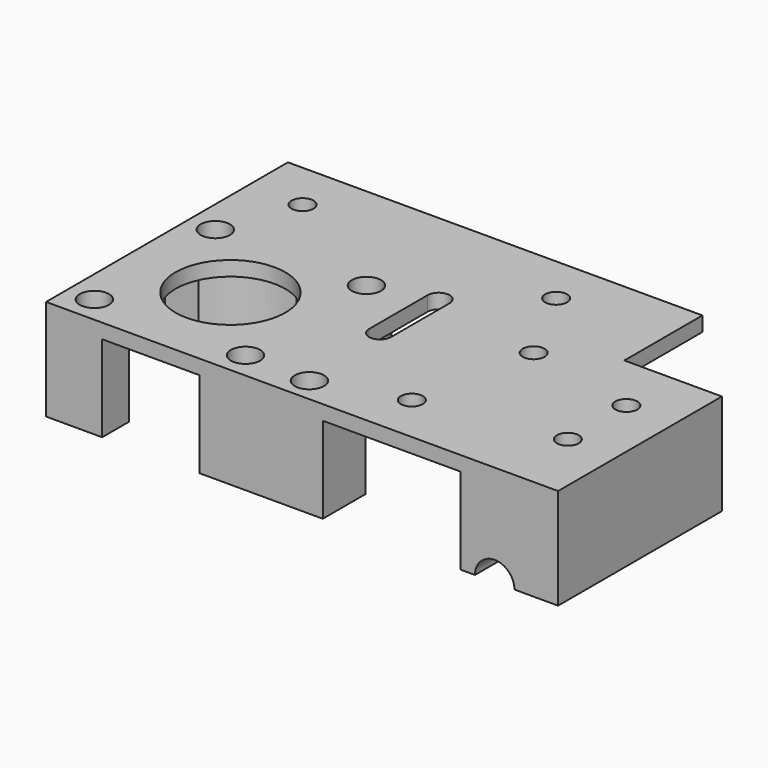
from build123d import *

# Parameters (mm, degrees)
SKETCH_R        = 2.25
SKETCH_R_2      = 11.25
SKETCH_R_3      = 1.75
PAD_DEPTH       = 20.7
POCKET_DEPTH    = 17.7
SKETCH002_R     = 4
PAD001_DEPTH    = 8
SKETCH003_R     = 3
POCKET001_DEPTH = 8
SKETCH004_R     = 1.75
POCKET002_DEPTH = 5
SKETCH005_R     = 4.05
POCKET003_DEPTH = 12
SKETCH006_R     = 1.75
POCKET004_DEPTH = 12.701


with BuildPart() as pocket_belt_path:
    # Sketch → Pad (new body)
    with BuildSketch(Plane.XY):
        Polygon((0, 0), (105, 0), (105, 62), (20, 62), (20, 42), (0, 42), align=None)
        with Locations((38, 10)):
            Circle(SKETCH_R, mode=Mode.SUBTRACT)
        with Locations((33, 35)):
            Circle(SKETCH_R, mode=Mode.SUBTRACT)
        with Locations((84, 21)):
            Circle(SKETCH_R_2, mode=Mode.SUBTRACT)
        with Locations((68.5, 36.5)):
            Circle(SKETCH_R_3, mode=Mode.SUBTRACT)
        with Locations((99.5, 36.5)):
            Circle(SKETCH_R_3, mode=Mode.SUBTRACT)
        with Locations((68.5, 5.5)):
            Circle(SKETCH_R_3, mode=Mode.SUBTRACT)
        with Locations((99.5, 5.5)):
            Circle(SKETCH_R_3, mode=Mode.SUBTRACT)
        with Locations((10, 30)):
            Circle(SKETCH_R, mode=Mode.SUBTRACT)
        with Locations((10, 15)):
            Circle(SKETCH_R, mode=Mode.SUBTRACT)
        with Locations((42, 52)):
            Circle(SKETCH_R, mode=Mode.SUBTRACT)
        with Locations((94, 52)):
            Circle(SKETCH_R, mode=Mode.SUBTRACT)
        with Locations((55, 5)):
            Circle(SKETCH_R_3, mode=Mode.SUBTRACT)
        with BuildLine():
            Line((58.75, 25.000001), (58.75, 40))
            ThreePointArc((58.75, 40), (56.5, 42.25), (54.25, 39.999999))
            Line((54.25, 25), (54.25, 39.999999))
            ThreePointArc((54.25, 25), (56.5, 22.75), (58.75, 25.000001))
        make_face(mode=Mode.SUBTRACT)
    extrude(amount=PAD_DEPTH)

    # Sketch001 → Pocket (cut)
    with BuildSketch(Plane.XY.offset(20.7)):
        with BuildLine():
            ThreePointArc((41.485277, 42), (39.015593, 44.209375), (35.999996, 45.583005))
            Line((35.999996, 67), (35.999996, 45.583005))
            Line((20, 67), (35.999996, 67))
            Line((20, -1), (20, 67))
            Line((20, -1), (48.252269, -1))
            Line((48.252269, 11), (48.252269, -1))
            Line((48.252269, 11), (70.252269, 11))
            ThreePointArc((70.252269, 11), (71.759618, 9.202833), (73.499996, 7.630258))
            Line((73.499996, 7.630258), (73.499996, -1))
            Line((73.499996, -1), (93.499996, -1))
            Line((93.499996, -1), (93.499996, 6.902128))
            ThreePointArc((93.499996, 6.902128), (95.574295, 8.548671), (97.367695, 10.497399))
            Line((105.499996, 10.497399), (97.367695, 10.497399))
            Line((105.499996, 30.497399), (105.499996, 10.497399))
            Line((98.099621, 30.497399), (105.499996, 30.497399))
            ThreePointArc((98.099621, 30.497399), (91.98574, 36.007594), (83.999996, 38))
            Line((83.999996, 38), (83.999996, 67))
            Line((83.999996, 67), (46.999996, 67))
            Line((46.999996, 67), (46.999996, 42))
            Line((41.485277, 42), (46.999996, 42))
        make_face()
    extrude(amount=-POCKET_DEPTH, mode=Mode.SUBTRACT)


with BuildPart() as pocket004:
    # Part__Mirroring: instance of Pocket belt path
    add(pocket_belt_path.part.mirror(Plane(origin=(52.5, 31, 0), x_dir=(0, 1, 0), z_dir=(0, 0, 1))))

    # Sketch002 → Pad001 (new body)
    with BuildSketch(Plane(origin=(0, 0, -3), x_dir=(1, 0, 0), z_dir=(0, 0, -1))):
        with Locations((68.5, -36.5)):
            Circle(SKETCH002_R)
    extrude(amount=PAD001_DEPTH)

    # Sketch003 → Pocket001 (cut)
    with BuildSketch(Plane.XY):
        with Locations((55, 5)):
            Circle(SKETCH003_R)
        with Locations((68.5, 36.5)):
            Circle(SKETCH003_R)
        with Locations((68.5, 5.5)):
            Circle(SKETCH003_R)
        with Locations((99.5, 36.5)):
            Circle(SKETCH003_R)
        with Locations((99.5, 5.5)):
            Circle(SKETCH003_R)
    extrude(amount=-POCKET001_DEPTH, mode=Mode.SUBTRACT)

    # Sketch004 → Pocket002 (cut)
    with BuildSketch(Plane.XY.offset(-8)):
        with Locations((94, 52)):
            Circle(SKETCH004_R)
    extrude(amount=-POCKET002_DEPTH, mode=Mode.SUBTRACT)

    # Sketch005 → Pocket003 (cut)
    with BuildSketch(Plane.XZ):
        with Locations((13, -20.7)):
            Circle(SKETCH005_R)
    extrude(amount=-POCKET003_DEPTH, mode=Mode.SUBTRACT)

    # Sketch006 → Pocket004 (cut, through all)
    with BuildSketch(Plane.XY.offset(-8)):
        with Locations((68.5, 36.5)):
            Circle(SKETCH006_R)
    extrude(amount=-POCKET004_DEPTH, mode=Mode.SUBTRACT)


with BuildPart() as part_mirroring001:
    # Part__Mirroring001: instance of Pocket004
    add(pocket004.part.mirror(Plane(origin=(0, 0, 0), x_dir=(0, -1, 0), z_dir=(1, 0, 0))))


solid = part_mirroring001.part
